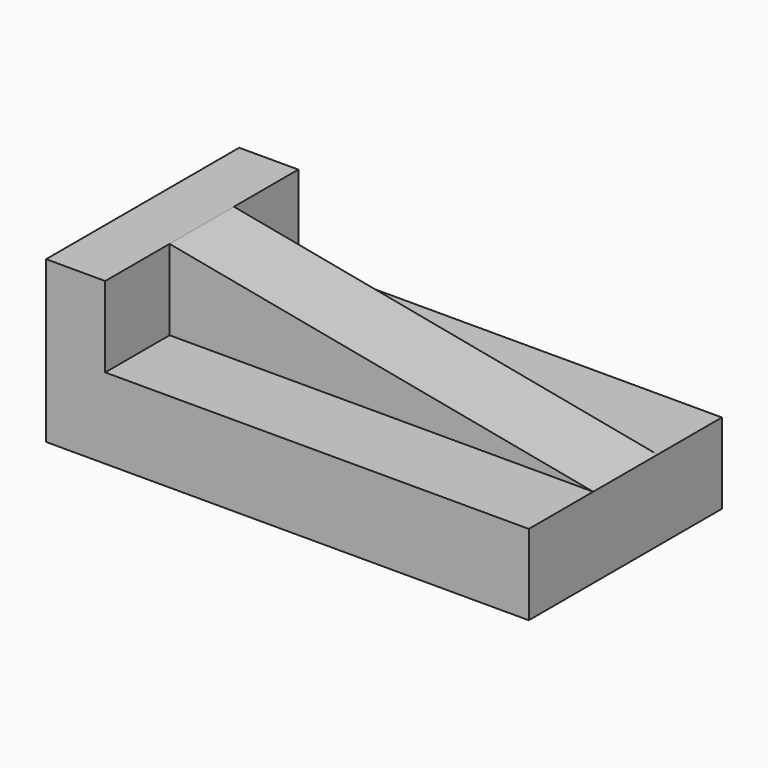
from build123d import *

# Parameters (mm, degrees)
F0_W     = 152.4
F0_H     = 50.8
F1_DEPTH = 76.2
F2_W     = 133.730998
F2_H     = 25.4
F3_DEPTH = 25.4
F4_W     = 133.730998
F4_H     = 25.4
F5_DEPTH = 25.4
F7_DEPTH = 25.4


with BuildPart() as f1:
    # F0 (on Front) → F1 (new body)
    with BuildSketch(Plane.XZ):
        with Locations((76.2, 25.4)):
            Rectangle(F0_W, F0_H)
    extrude(amount=-F1_DEPTH)

    # F2 (on face) → F3 (cut)
    with BuildSketch(Plane.XY.offset(50.8)):
        with Locations((85.534501, 12.7)):
            Rectangle(F2_W, F2_H)
    extrude(amount=-F3_DEPTH, mode=Mode.SUBTRACT)

    # F4 (on face) → F5 (cut)
    with BuildSketch(Plane.XY.offset(50.8)):
        with Locations((85.534501, 63.5)):
            Rectangle(F4_W, F4_H)
    extrude(amount=-F5_DEPTH, mode=Mode.SUBTRACT)

    # F6 (on face) → F7 (cut)
    with BuildSketch(Plane.XZ.offset(-25.4)):
        Polygon((152.4, 50.8), (18.669002, 50.8), (152.4, 25.4), align=None)
    extrude(amount=-F7_DEPTH, mode=Mode.SUBTRACT)


solid = f1.part
